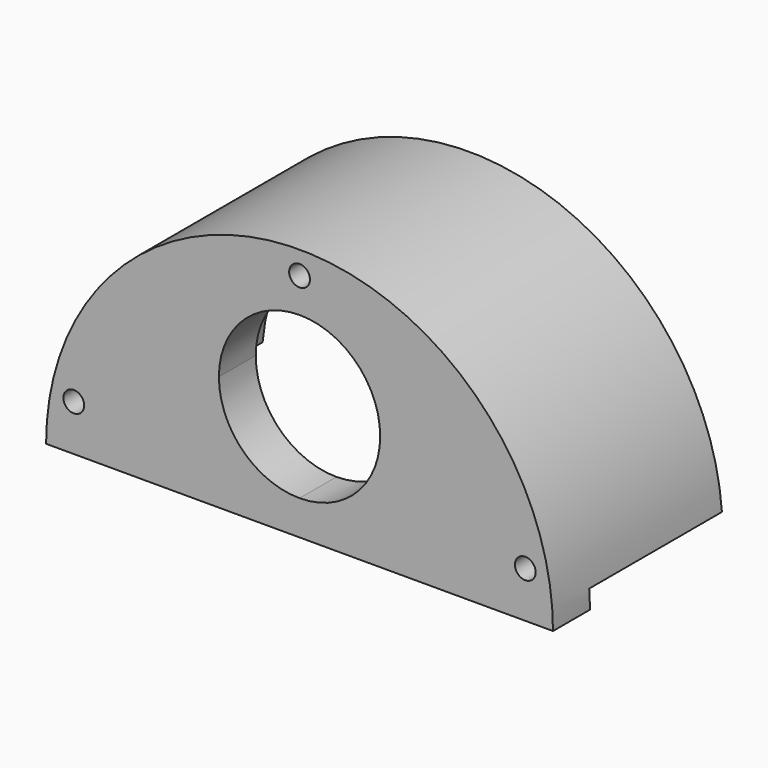
from build123d import *

# Parameters (mm, degrees)
F1_DEPTH = 46
F3_DEPTH = 36
F4_W     = 36
F4_H     = 4
F5_DEPTH = 60
F7_DEPTH = 25
F9_D     = 4.5


with BuildPart() as f1:
    # F0 (on Front) → F1 (new body)
    with BuildSketch(Plane.XZ):
        with BuildLine():
            Line((-55, 0), (55, 0))
            ThreePointArc((55, 0), (0, 55), (-55, 0))
        make_face()
    extrude(amount=F1_DEPTH)

    # F2 (on face) → F3 (cut)
    with BuildSketch(Plane(origin=(0, 0, 0), x_dir=(-1, 0, 0), z_dir=(0, 1, 0))):
        with BuildLine():
            Line((-45, 0), (45, 0))
            ThreePointArc((45, 0), (0, 45), (-45, 0))
        make_face()
    extrude(amount=-F3_DEPTH, mode=Mode.SUBTRACT)

    # F4 (on Right) → F5 (cut, symmetric)
    with BuildSketch(Plane.YZ):
        with Locations((-18, 2)):
            Rectangle(F4_W, F4_H)
    extrude(amount=F5_DEPTH, both=True, mode=Mode.SUBTRACT)

    # F6 (on face) → F7 (cut)
    with BuildSketch(Plane(origin=(0, -36, 0), x_dir=(-1, 0, 0), z_dir=(0, 1, 0))):
        with BuildLine():
            ThreePointArc((0, 7.5), (12.3743686708, 12.6256313292), (17.5, 25))
            ThreePointArc((17.5, 25), (12.3743686708, 37.3743686708), (0, 42.5))
            Line((0, 42.5), (0, 7.5))
        make_face()
        with BuildLine():
            Line((0, 7.5), (0, 42.5))
            ThreePointArc((0, 42.5), (-17.5, 25), (0, 7.5))
        make_face()
    extrude(amount=-F7_DEPTH, mode=Mode.SUBTRACT)

    # F9 (through all)
    with Locations(Plane.XZ.offset(46)):
        with Locations((48.9897948557, 10), (0, 50), (-48.9897948557, 10)):
            Hole(F9_D / 2)


solid = f1.part
